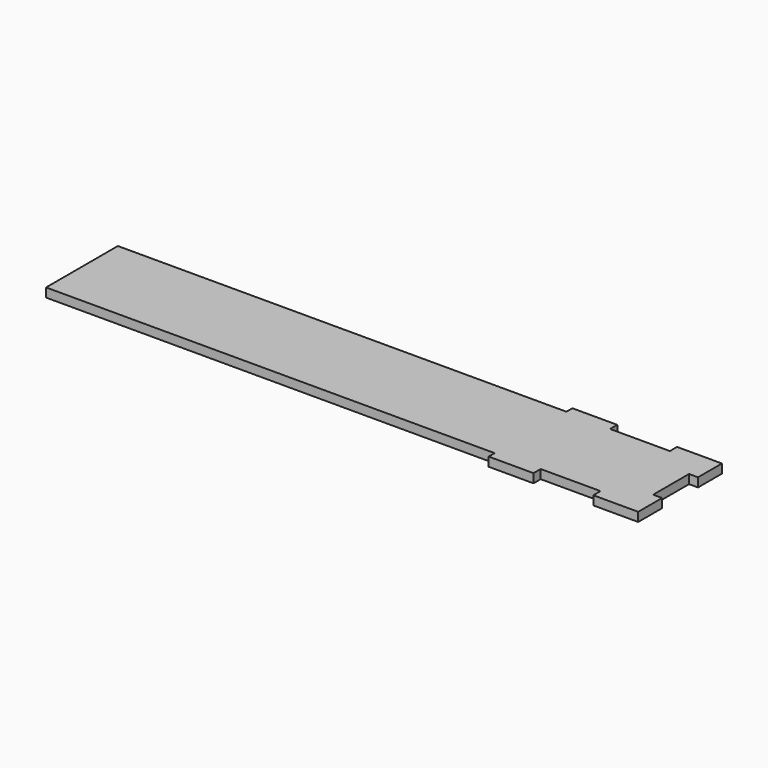
from build123d import *

# Parameters (mm, degrees)
F0_W     = 150
F0_H     = 18.520209
F0_H_2   = 11.479791
F1_DEPTH = 3


with BuildPart() as f1:
    # F0 (on Top) → F1 (new body)
    with BuildSketch(Plane.XY):
        with Locations((-75, 9.260104)):
            Rectangle(F0_W, F0_H)
        with Locations((-75, -5.739895)):
            Rectangle(F0_W, F0_H_2)
        Polygon((0, 18.520209), (0, 0), (0, -11.479791), (0, -13.979791), (15, -13.979791), (15, -10.979791), (35, -10.979791), (35, -13.979791), (50, -13.979791), (50, -3.979791), (47, -3.979791), (47, 11.020209), (50, 11.020209), (50, 21.020209), (35, 21.020209), (35, 18.020209), (15, 18.020209), (15, 21.020209), (0, 21.020209), align=None)
    extrude(amount=F1_DEPTH)


solid = f1.part
